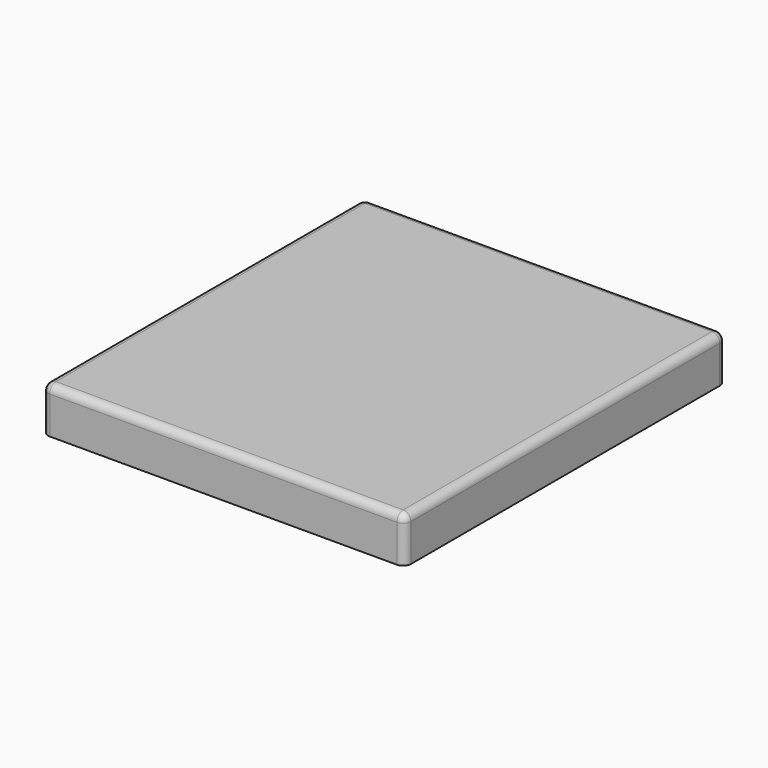
from build123d import *

# Parameters (mm, degrees)
F0_W     = 46.6
F0_H     = 51.6
F0_W_2   = 45
F0_H_2   = 50
F1_DEPTH = 0.8
F2_DEPTH = 5
F4_DEPTH = 0.8
F5_R     = 1


with BuildPart() as f1:
    # F0 (on Top) → F1 (new body)
    with BuildSketch(Plane.XY):
        with Locations((22.5, 25)):
            Rectangle(F0_W, F0_H)
        with Locations((22.5, 25)):
            Rectangle(F0_W_2, F0_H_2, mode=Mode.SUBTRACT)
        with Locations((22.5, 25)):
            Rectangle(F0_W_2, F0_H_2)
    extrude(amount=F1_DEPTH)

    # F0 (on Top) → F2 (join)
    with BuildSketch(Plane.XY):
        with Locations((22.5, 25)):
            Rectangle(F0_W, F0_H)
        with Locations((22.5, 25)):
            Rectangle(F0_W_2, F0_H_2, mode=Mode.SUBTRACT)
    extrude(amount=-F2_DEPTH)

    # F3 (on face) → F4 (cut, through all)
    with BuildSketch(Plane(origin=(0, 50.8, 0), x_dir=(-1, 0, 0), z_dir=(0, 1, 0))):
        with BuildLine():
            Line((-35.47274, -5), (-31.67274, -5))
            ThreePointArc((-31.67274, -5), (-33.57274, -3.1), (-35.47274, -5))
        make_face()
        with BuildLine():
            ThreePointArc((-35.47274, -5), (-33.57274, -6.9), (-31.67274, -5))
            Line((-31.67274, -5), (-35.47274, -5))
        make_face()
    extrude(amount=-F4_DEPTH, mode=Mode.SUBTRACT)

    # F5
    f5_edges = [f1.edges().sort_by_distance(p)[0] for p in [
        (-0.8, 25, 0.8),
        (22.5, -0.8, 0.8),
        (45.8, 25, 0.8),
        (22.5, 50.8, 0.8),
        (-0.8, 50.8, -2.1),
        (45.8, 50.8, -2.1),
        (-0.8, -0.8, -2.1),
        (45.8, -0.8, -2.1),
        (22.5, 0, 0),
        (0, 25, 0),
        (22.5, 50, 0),
        (45, 25, 0),
    ]]
    fillet(f5_edges, radius=F5_R)


solid = f1.part
